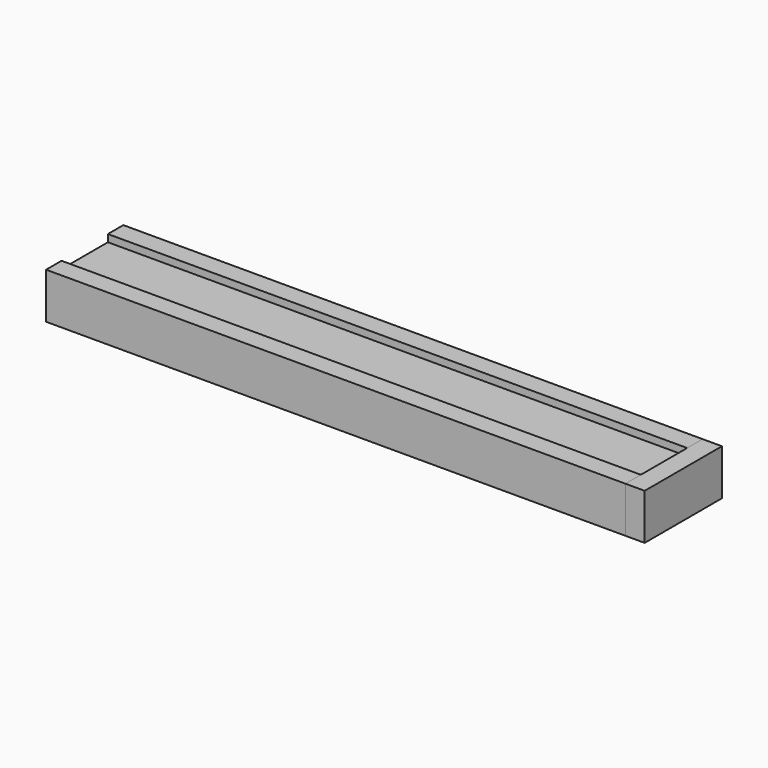
from build123d import *

# Parameters (mm, degrees)
F1_DEPTH = 406.4
F0_W     = 38.1
F0_H     = 25.4
F2_DEPTH = 406.4
F3_W     = 25.4
F3_H     = 63.5
F4_DEPTH = 30.1635
F5_W     = 12.7
F5_H     = 63.5
F6_DEPTH = 30.1625


with BuildPart() as f1:
    # F0 (on Right) → F1 (new body)
    with BuildSketch(Plane.YZ):
        Polygon((0, 30.1625), (0, 0), (12.7, 0), (12.7, 25.4), (12.7, 30.1625), align=None)
        Polygon((50.8, 25.4), (50.8, 0), (63.5, 0), (63.5, 30.1625), (50.8, 30.1625), align=None)
    extrude(amount=F1_DEPTH)


with BuildPart() as f2:
    # F0 (on Right) → F2 (new body, through all)
    with BuildSketch(Plane.YZ):
        with Locations((31.75, 12.7)):
            Rectangle(F0_W, F0_H)
    extrude(amount=F2_DEPTH)


with BuildPart() as f4_tool:
    # F3 (on face) → F4 (new body, through all)
    with BuildSketch(Plane.XY.offset(30.1625)):
        with Locations((393.7, 31.75)):
            Rectangle(F3_W, F3_H)
    extrude(amount=-F4_DEPTH)


with BuildPart() as f1_1:
    add(f1.part)

    # F4: cut by f4_tool
    add(f4_tool.part, mode=Mode.SUBTRACT)


with BuildPart() as f2_1:
    add(f2.part)

    # F4: cut by f4_tool
    add(f4_tool.part, mode=Mode.SUBTRACT)


with BuildPart() as f6:
    # F5 (on Top) → F6 (new body, through all)
    with BuildSketch(Plane.XY):
        with Locations((387.35, 31.75)):
            Rectangle(F5_W, F5_H)
    extrude(amount=F6_DEPTH)


solid = Compound([f1_1.part, f2_1.part, f6.part])
